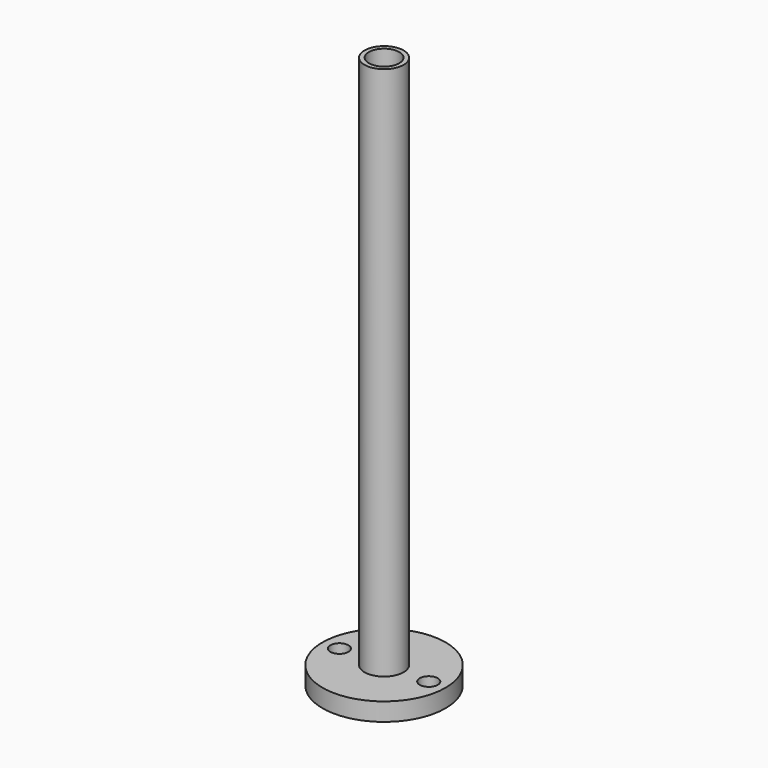
from build123d import *

# Parameters (mm, degrees)
F0_R     = 17.49425
F1_DEPTH = 5.1308
F2_R     = 5.55625
F3_DEPTH = 152
F4_R     = 4.318
F5_DEPTH = 157.1318
F7_D     = 5.1308


with BuildPart() as f1:
    # F0 (on Top) → F1 (new body)
    with BuildSketch(Plane.XY):
        Circle(F0_R)
    extrude(amount=F1_DEPTH)

    # F2 (on face) → F3 (join)
    with BuildSketch(Plane.XY.offset(5.1308)):
        Circle(F2_R)
    extrude(amount=F3_DEPTH)

    # F4 (on face) → F5 (cut, through all)
    with BuildSketch(Plane(origin=(0, 0, 0), x_dir=(1, 0, 0), z_dir=(0, 0, -1))):
        Circle(F4_R)
    extrude(amount=-F5_DEPTH, mode=Mode.SUBTRACT)

    # F7 (through all)
    with Locations(Plane(origin=(0, 0, 0), x_dir=(1, 0, 0), z_dir=(0, 0, -1))):
        with Locations((-12.7, 0), (12.7, 0)):
            Hole(F7_D / 2)


solid = f1.part
